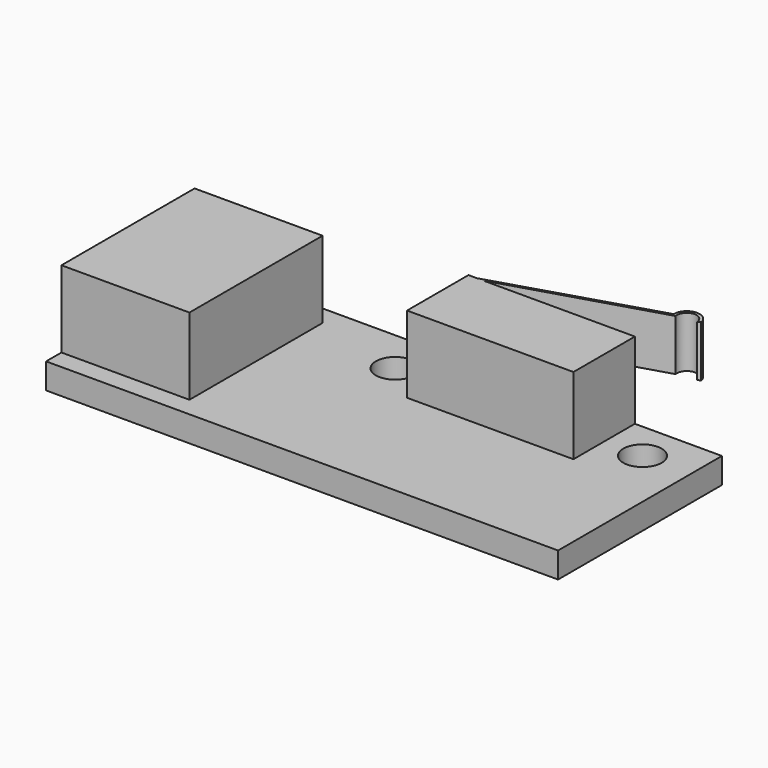
from build123d import *

# Parameters (mm, degrees)
F0_W     = 40
F0_H     = 16
F1_DEPTH = 2
F2_W     = 10
F2_H     = 13
F2_W_2   = 13
F2_H_2   = 6
F3_DEPTH = 6
F4_R     = 1.5
F5_DEPTH = 25
F7_DEPTH = 4


with BuildPart() as f1:
    # F0 (on Top) → F1 (new body)
    with BuildSketch(Plane.XY):
        with Locations((20, 8)):
            Rectangle(F0_W, F0_H)
    extrude(amount=F1_DEPTH)

    # F2 (on face) → F3 (join)
    with BuildSketch(Plane.XY.offset(2)):
        with Locations((5, 8)):
            Rectangle(F2_W, F2_H)
        with Locations((26.7, 13)):
            Rectangle(F2_W_2, F2_H_2)
    extrude(amount=F3_DEPTH)

    # F4 (on face) → F5 (cut)
    with BuildSketch(Plane.XY.offset(2)):
        with Locations((17.2, 12.58387)):
            Circle(F4_R)
        with Locations((36.2, 12.996209)):
            Circle(F4_R)
    extrude(amount=-F5_DEPTH, mode=Mode.SUBTRACT)

    # F6 (on face) → F7 (join)
    with BuildSketch(Plane.XY.offset(8)):
        with BuildLine():
            Line((33.196565, 19.791735), (20.869566, 16))
            Line((20.869566, 16), (21.372473, 16))
            Line((21.372473, 16), (33.448326, 19.669136))
            ThreePointArc((33.448326, 19.669136), (34.091376, 20.578656), (34.9574, 19.878127))
            Line((34.9574, 19.878127), (35.180375, 19.999125))
            ThreePointArc((35.180375, 19.999125), (34.092116, 20.817116), (33.196565, 19.791735))
        make_face()
    extrude(amount=-F7_DEPTH)


solid = f1.part
